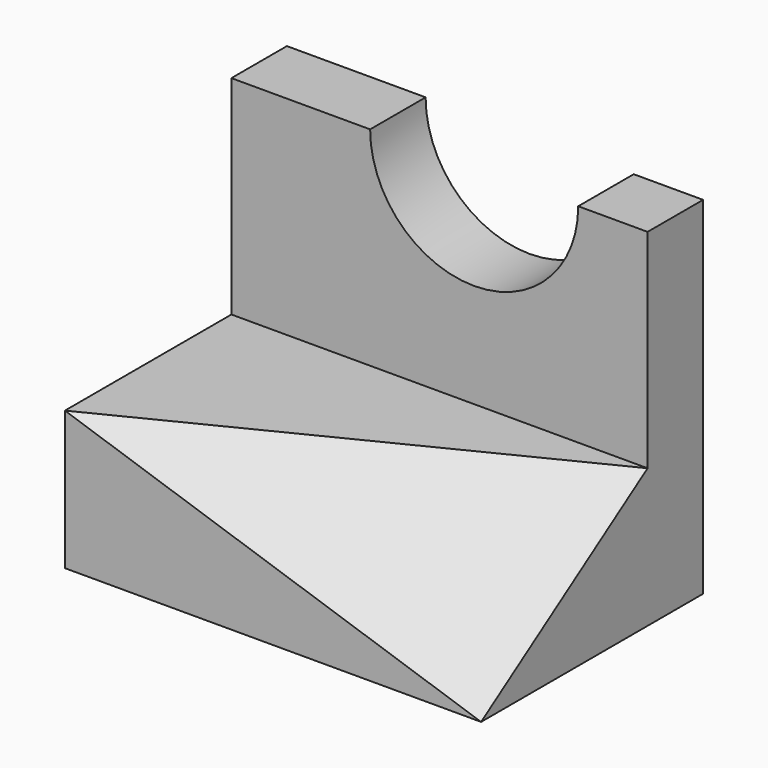
from build123d import *

# Parameters (mm, degrees)
F1_DEPTH = 4
F2_W     = 6
F2_H     = 3
F3_DEPTH = 3
F6_DEPTH = 4.0099186287


with BuildPart() as f1:
    # F0 (on Front) → F1 (new body)
    with BuildSketch(Plane.XZ):
        with BuildLine():
            Line((0, 5), (0, 0))
            Line((0, 0), (6, 0))
            Line((6, 0), (6, 5))
            Line((6, 5), (5, 5))
            ThreePointArc((5, 5), (3.5, 3.5), (2, 5))
            Line((2, 5), (0, 5))
        make_face()
    extrude(amount=F1_DEPTH)

    # F2 (on face) → F3 (cut)
    with BuildSketch(Plane.XZ.offset(4)):
        with Locations((3, 3.5)):
            Rectangle(F2_W, F2_H)
    extrude(amount=-F3_DEPTH, mode=Mode.SUBTRACT)

    # F5 (on 3pt) → F6 (cut, through all)
    with BuildSketch(Plane(origin=(1, -2, 3), x_dir=(0.9636241117, 0.1482498633, -0.222374795), z_dir=(-0.2672612419, 0.5345224838, -0.8017837257))):
        Polygon((5.1887452166, 3.3282011774), (-1.0377490433, 2.2188007849), (5.1887452166, -0.2773500981), align=None)
    extrude(amount=-F6_DEPTH, mode=Mode.SUBTRACT)


solid = f1.part
